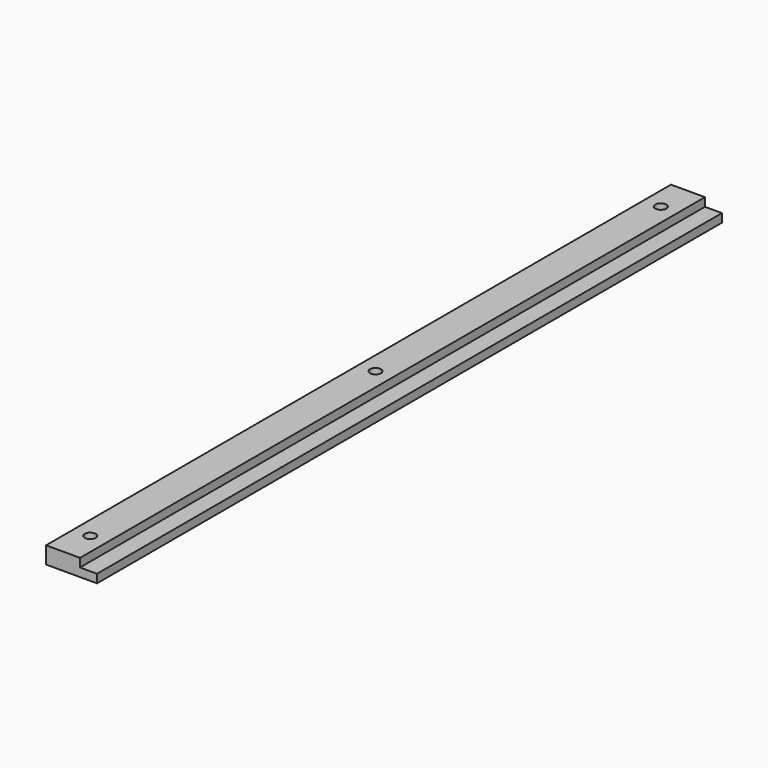
from build123d import *

# Parameters (mm, degrees)
F1_DEPTH  = 460
F3_D      = 6.5
F5_D      = 6.5
F7_D      = 6.5
F9_D      = 10.5
F9_DEPTH  = 3
F9_TIP    = 3.1545182499
F11_D     = 10.5
F11_DEPTH = 3
F11_TIP   = 3.1545182499
F13_D     = 10.5
F13_DEPTH = 3
F13_TIP   = 3.1545182499


with BuildPart() as f1:
    # F0 (on Front) → F1 (new body)
    with BuildSketch(Plane.XZ):
        Polygon((0, 10), (0, 0), (30, 0), (30, 5), (20, 5), (20, 10), align=None)
    extrude(amount=-F1_DEPTH)

    # F3 (through all)
    with Locations(Plane(origin=(0, 0, 0), x_dir=(1, 0, 0), z_dir=(0, 0, -1))):
        with Locations((10, -440)):
            Hole(F3_D / 2)

    # F5 (through all)
    with Locations(Plane(origin=(0, 0, 0), x_dir=(1, 0, 0), z_dir=(0, 0, -1))):
        with Locations((10, -230)):
            Hole(F5_D / 2)

    # F7 (through all)
    with Locations(Plane(origin=(0, 0, 0), x_dir=(1, 0, 0), z_dir=(0, 0, -1))):
        with Locations((10, -20)):
            Hole(F7_D / 2)

    # F9
    with Locations(Plane(origin=(0, 0, 0), x_dir=(1, 0, 0), z_dir=(0, 0, -1))):
        with Locations((10, -440)):
            Hole(F9_D / 2, depth=F9_DEPTH)
            with Locations((0, 0, -(F9_DEPTH + F9_TIP / 2))):  # 118° drill point
                Cone(0, F9_D / 2, F9_TIP, mode=Mode.SUBTRACT)

    # F11
    with Locations(Plane(origin=(0, 0, 0), x_dir=(1, 0, 0), z_dir=(0, 0, -1))):
        with Locations((10, -230)):
            Hole(F11_D / 2, depth=F11_DEPTH)
            with Locations((0, 0, -(F11_DEPTH + F11_TIP / 2))):  # 118° drill point
                Cone(0, F11_D / 2, F11_TIP, mode=Mode.SUBTRACT)

    # F13
    with Locations(Plane(origin=(0, 0, 0), x_dir=(1, 0, 0), z_dir=(0, 0, -1))):
        with Locations((10, -20)):
            Hole(F13_D / 2, depth=F13_DEPTH)
            with Locations((0, 0, -(F13_DEPTH + F13_TIP / 2))):  # 118° drill point
                Cone(0, F13_D / 2, F13_TIP, mode=Mode.SUBTRACT)


solid = f1.part
